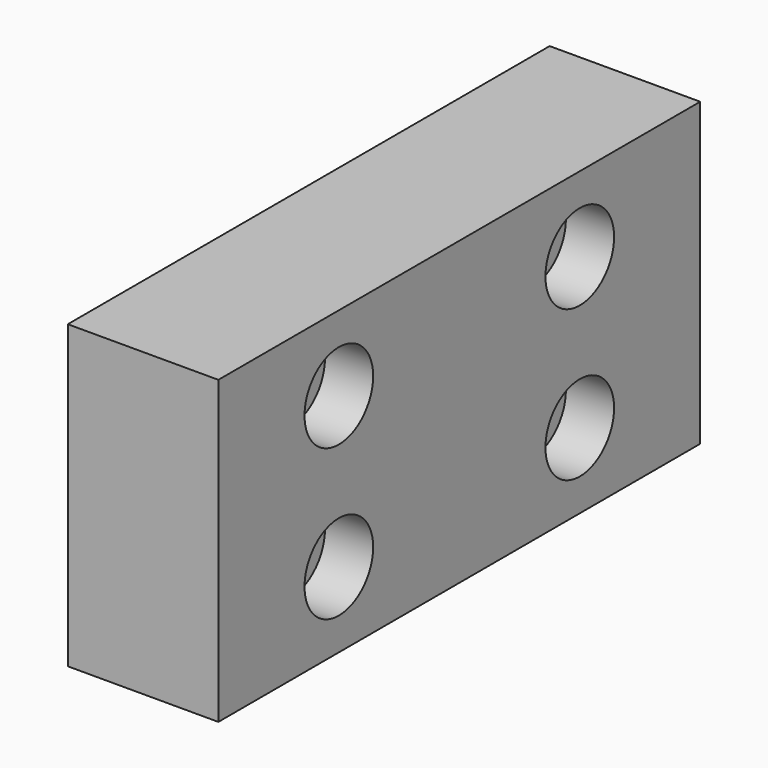
from build123d import *

# Parameters (mm, degrees)
F0_W           = 100
F0_H           = 50
F1_DEPTH       = 12.5
F3_D           = 8.8
F3_CBORE_D     = 14.25
F3_CBORE_DEPTH = 8


with BuildPart() as f1:
    # F0 (on Right) → F1 (new body, symmetric)
    with BuildSketch(Plane.YZ):
        Rectangle(F0_W, F0_H)
    extrude(amount=F1_DEPTH, both=True)

    # F3 (through all)
    with Locations(Plane.YZ.offset(12.5)):
        with Locations((-25, 12.5), (-25, -12.5), (25, -12.5), (25, 12.5)):
            CounterBoreHole(F3_D / 2, F3_CBORE_D / 2, F3_CBORE_DEPTH)


solid = f1.part
